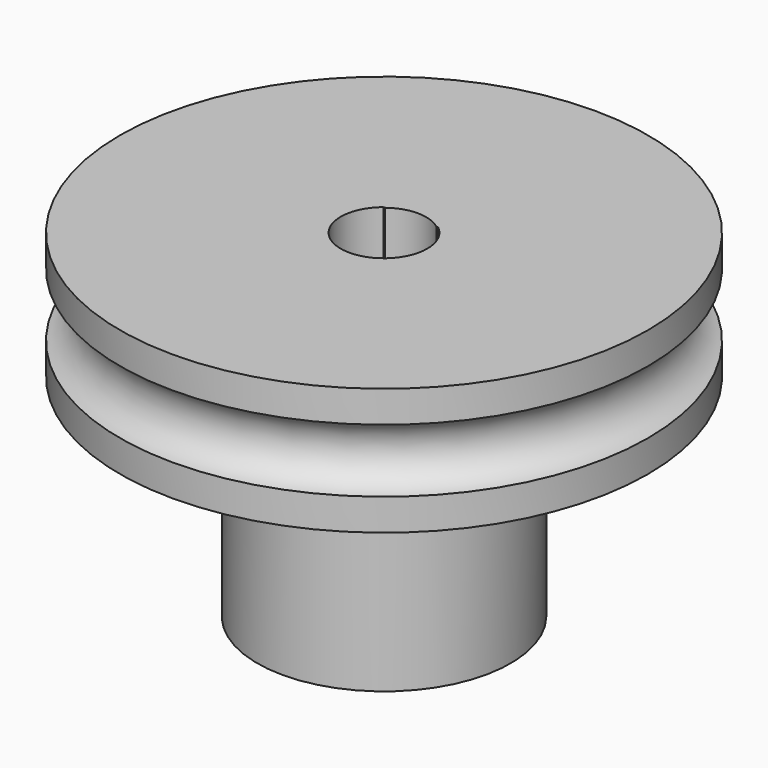
from build123d import *

# Parameters (mm, degrees)
F4_DEPTH = 10
F5_DEPTH = 16.001
F7_D     = 2.2
F7_DEPTH = 4
F8_D     = 4


with BuildPart() as f1:
    # F0 (on Front) → F1 (revolve)
    with BuildSketch(Plane.XZ):
        with BuildLine():
            Line((-12.5, 0), (0, 0))
            Line((0, 0), (0, 6))
            Line((0, 6), (-12.5, 6))
            Line((-12.5, 6), (-12.5, 4.5))
            ThreePointArc((-12.5, 4.5), (-11.3, 3), (-12.5, 1.5))
            Line((-12.5, 1.5), (-12.5, 0))
        make_face()
    revolve(axis=Axis((0, 0, 3), (0, 0, 1)))

    # F3 (on Top) → F4 (join)
    with BuildSketch(Plane.XY):
        with BuildLine():
            Line((3.0351, 5.175729), (-3.0351, 5.175729))
            ThreePointArc((-3.0351, 5.175729), (0, -6), (3.0351, 5.175729))
        make_face()
    extrude(amount=-F4_DEPTH)

    # F2 (on face) → F5 (cut, through all)
    with BuildSketch(Plane.XY.offset(6)):
        with BuildLine():
            ThreePointArc((-1.301243, 1.584066), (-0.876057, -1.853382), (2.05, 0))
            ThreePointArc((2.05, 0), (1.853382, 0.876057), (1.301243, 1.584066))
            Line((1.301243, 1.584066), (-1.301243, 1.584066))
        make_face()
    extrude(amount=-F5_DEPTH, mode=Mode.SUBTRACT)

    # F7
    with Locations(Plane(origin=(0, 5.175729, 0), x_dir=(-1, 0, 0), z_dir=(0, 1, 0))):
        with Locations((0, -5)):
            Hole(F7_D / 2, depth=F7_DEPTH)

    # F8 (through all)
    with Locations(Plane.XY.offset(6)):
        with Locations((0, 0)):
            Hole(F8_D / 2)


solid = f1.part
